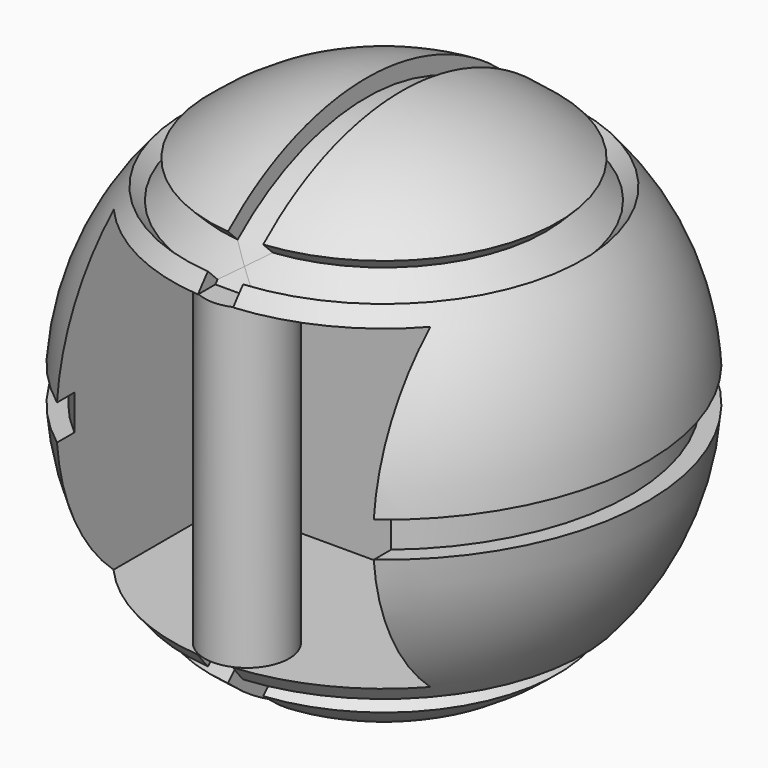
from build123d import *

# Parameters (mm, degrees)
F2_W      = 1.651
F2_H      = 1.27
F4_W      = 1.27
F4_H      = 0.971177
F7_W      = 11.43
F7_H      = 11.43
F8_DEPTH  = 9.525
F9_R      = 1.524
F10_DEPTH = 11.43


with BuildPart() as f1:
    # F0 (on Front) → F1 (revolve)
    with BuildSketch(Plane.XZ):
        with BuildLine():
            Line((0, 9.525), (0, -9.525))
            ThreePointArc((0, -9.525), (9.525, 0), (0, 9.525))
        make_face()
    revolve(axis=Axis((0, 0, 0), (0, 0, 1)))

    # F2 (on Front) → F3 (revolve, cut)
    with BuildSketch(Plane.XZ):
        with Locations((9.7155, 0)):
            Rectangle(F2_W, F2_H)
        Polygon((5.837166, 6.735192), (6.286179, 6.286179), (6.735192, 5.837166), (7.184205, 6.286179), (6.286179, 7.184205), align=None)
        Polygon((7.184205, -6.286179), (6.735192, -5.837166), (6.286179, -6.286179), (5.837166, -6.735192), (6.286179, -7.184205), align=None)
    revolve(axis=Axis((0, 0, 1.697431), (0, 0, 1)), mode=Mode.SUBTRACT)

    # F4 (on Front) → F5 (revolve, cut)
    with BuildSketch(Plane.XZ):
        with Locations((0, 9.375588)):
            Rectangle(F4_W, F4_H)
    revolve(axis=Axis((-1.212651, 0, 0), (-1, 0, 0)), mode=Mode.SUBTRACT)

    # F7 (on offset) → F8 (cut)
    with BuildSketch(Plane.XZ.offset(9.525)):
        with Locations((-0.005085, 0.005085)):
            Rectangle(F7_W, F7_H)
    extrude(amount=-F8_DEPTH, mode=Mode.SUBTRACT)

    # F9 (on face) → F10 (join, through all)
    with BuildSketch(Plane.XY.offset(-5.709915)):
        with Locations((0, -6.178881)):
            Circle(F9_R)
    extrude(amount=F10_DEPTH)


solid = f1.part
